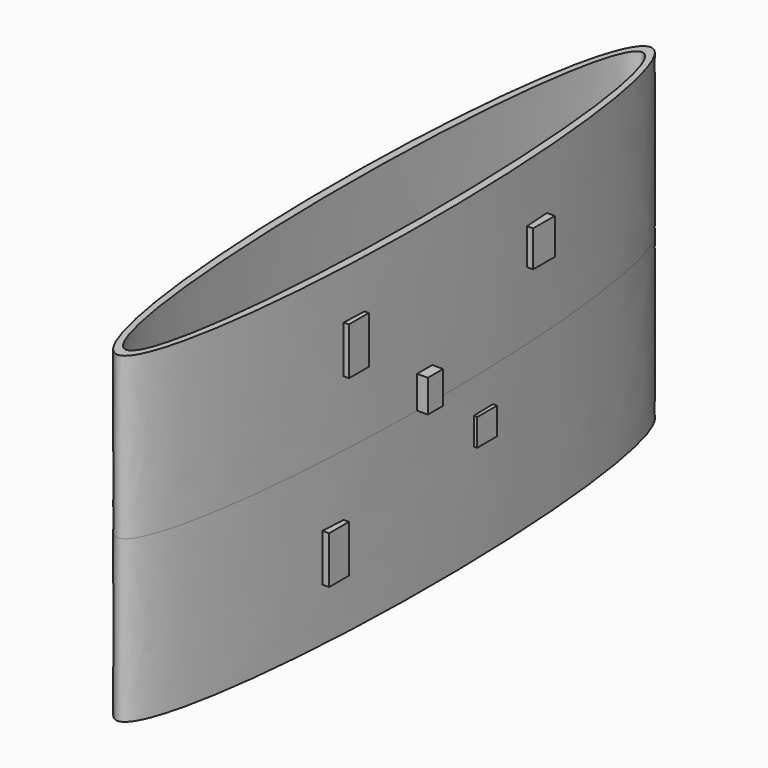
from build123d import *

# Parameters (mm, degrees)
F1_DEPTH = 15
F3_W     = 1.7686963547
F3_H     = 3.0173305422
F4_DEPTH = 1.5
F5_W     = 2.3104907013
F5_H     = 2.5205356069
F5_W_2   = 2.3104902357
F5_H_2   = 4.4109364972
F5_W_3   = 2.5205332786
F5_H_3   = 3.3607133664
F6_DEPTH = 0.75
F8_W     = 3.0675008893
F8_H     = 1.7893747427
F8_W_2   = 2.5562532246
F8_H_2   = 4.0900006425
F8_W_3   = 5.1125055179
F8_H_3   = 2.8118747286
F8_W_4   = 4.6012494713
F8_H_4   = 2.3006247357
F8_W_5   = 5.9702228755
F8_H_5   = 2.5562501978
F8_W_6   = 3.834375646
F8_H_6   = 2.81187566
F9_DEPTH = 0.75


with BuildPart() as f1:
    # F0 (on Top) → F1 (new body, symmetric)
    with BuildSketch(Plane.XY):
        with BuildLine():
            add(Edge.make_bspline(
                [(0, -31), (7.7942286341, -31), (3.897114317, 15.5), (0, 62), (-3.897114317, 15.5), (-7.7942286341, -31), (0, -31)],
                knots=[0, 0, 0, 2.0943951024, 2.0943951024, 4.1887902048, 4.1887902048, 6.2831853072, 6.2831853072, 6.2831853072], degree=2, weights=[1, 0.5, 1, 0.5, 1, 0.5, 1]))
        make_face()
        with BuildLine():
            add(Edge.make_bspline(
                [(0, 30), (-6.4951905284, 30), (-3.2475952642, -15), (0, -60), (3.2475952642, -15), (6.4951905284, 30), (0, 30)],
                knots=[0, 0, 0, 2.0943951024, 2.0943951024, 4.1887902048, 4.1887902048, 6.2831853072, 6.2831853072, 6.2831853072], degree=2, weights=[1, 0.5, 1, 0.5, 1, 0.5, 1]))
        make_face(mode=Mode.SUBTRACT)
    extrude(amount=F1_DEPTH, both=True)

    # F3 (on offset) → F4 (join)
    with BuildSketch(Plane.YZ.offset(4)):
        with Locations((-0.8843481774, 1.5086652711)):
            Rectangle(F3_W, F3_H)
    extrude(amount=F4_DEPTH)

    # F5 (on offset) → F6 (join, symmetric)
    with BuildSketch(Plane.YZ.offset(4)):
        with Locations((6.0546568129, -4.4156487565)):
            Rectangle(F5_W, F5_H)
        with Locations((-11.1690014601, -7.8813848086)):
            Rectangle(F5_W_2, F5_H_2)
        with Locations((-8.8585109916, 8.2920505665)):
            Rectangle(F5_W, F5_H_2)
        with Locations((12.6710617915, 7.976983441)):
            Rectangle(F5_W_3, F5_H_3)
    extrude(amount=F6_DEPTH, both=True)

    # F8 (on offset) → F9 (join, symmetric)
    with BuildSketch(Plane.YZ.offset(-4)):
        with Locations((10.1341521367, 7.3239475023)):
            Rectangle(F8_W, F8_H)
        with Locations((-11.5939769894, 4.6398845734)):
            Rectangle(F8_W_2, F8_H_2)
        with Locations((-13.8945993967, -8.5248046089)):
            Rectangle(F8_W_3, F8_H_3)
        with Locations((6.8110283464, -7.7579296194)):
            Rectangle(F8_W_4, F8_H_4)
        with Locations((-2.9851114377, 3.3617593581)):
            Rectangle(F8_W_5, F8_H_5)
        with Locations((-4.0530350525, -7.7579298522)):
            Rectangle(F8_W_6, F8_H_6)
    extrude(amount=F9_DEPTH, both=True)


solid = f1.part
